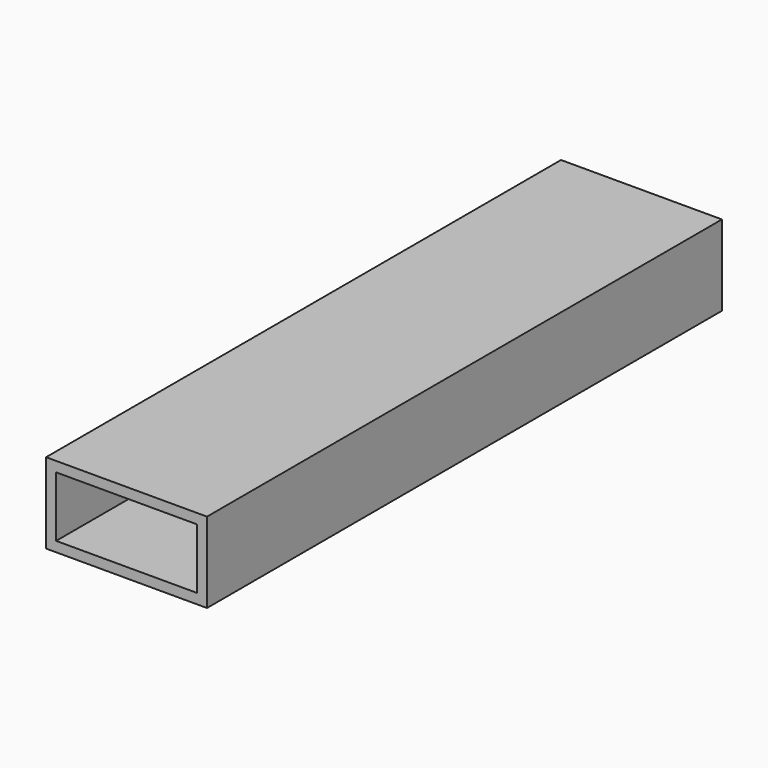
from build123d import *

# Parameters (mm, degrees)
F0_W     = 50.8
F0_H     = 203.2
F1_DEPTH = 12.7
F2_T     = -3.175


with BuildPart() as f1:
    # F0 (on Top) → F1 (new body, symmetric)
    with BuildSketch(Plane.XY):
        with Locations((-10.650958, -10.921195)):
            Rectangle(F0_W, F0_H)
    extrude(amount=F1_DEPTH, both=True)

    # F2
    f2_openings = [f1.faces().sort_by_distance(p)[0] for p in [
        (-10.650958, -112.521195, 0),
        (-10.650958, 90.678805, 0),
    ]]
    offset(amount=F2_T, openings=f2_openings)


solid = f1.part
